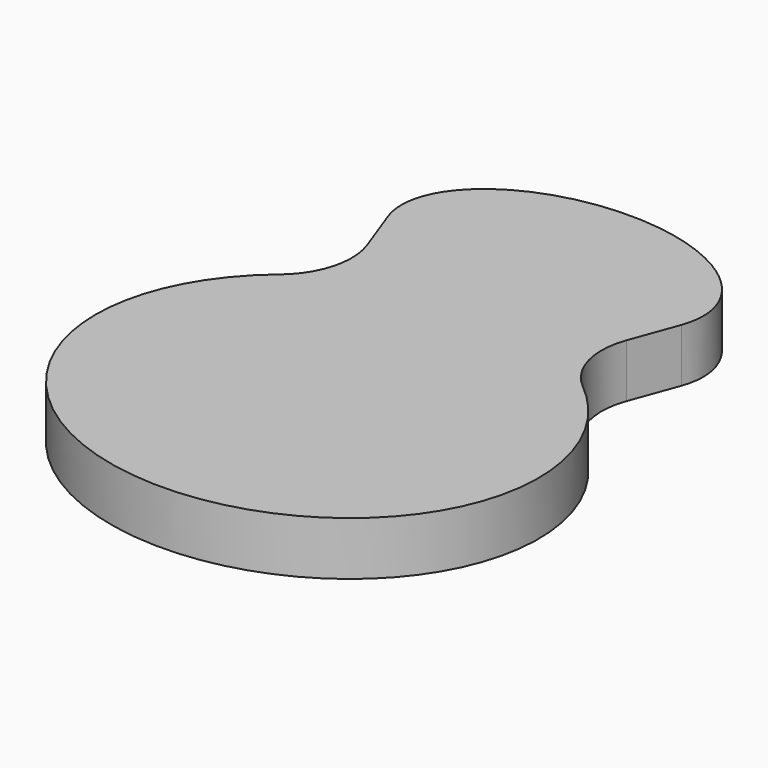
from build123d import *

# Parameters (mm, degrees)
F1_DEPTH = 40


with BuildPart() as f1:
    # F0 (on Top) → F1 (new body)
    with BuildSketch(Plane.XY):
        with BuildLine():
            Line((-112.9148460081, 252.6059501952), (-113.7991160194, 251.8639595549))
            add(Edge.make_bspline(
                [(-113.7991160194, 251.8639595549), (-413.958894664, 0), (0, 0)],
                knots=[2.3304194273, 2.3304194273, 2.3304194273, 4.7123889804, 4.7123889804, 4.7123889804], degree=2, weights=[1, 0.3707454562, 1]))
            add(Edge.make_bspline(
                [(0, 0), (413.958894664, 0), (113.7991160194, 251.8639595549)],
                knots=[4.7123889804, 4.7123889804, 4.7123889804, 7.0943585335, 7.0943585335, 7.0943585335], degree=2, weights=[1, 0.3707454562, 1]))
            Line((113.7991160194, 251.8639595549), (112.9148460081, 252.6059501952))
            ThreePointArc((112.9148460081, 252.6059501952), (95.1316220853, 280.543048292), (96.6132405176, 313.6267196419))
            Line((96.6132405176, 313.6267196419), (109.5007401215, 348.8708617374))
            add(Edge.make_bspline(
                [(109.5007401215, 348.8708617374), (142.0920209916, 438), (0, 438)],
                knots=[6.0517575763, 6.0517575763, 6.0517575763, 7.853981634, 7.853981634, 7.853981634], degree=2, weights=[1, 0.620738502, 1]))
            add(Edge.make_bspline(
                [(0, 438), (-142.0920209916, 438), (-109.5007401215, 348.8708617374)],
                knots=[4.7123889804, 4.7123889804, 4.7123889804, 6.5146130381, 6.5146130381, 6.5146130381], degree=2, weights=[1, 0.620738502, 1]))
            Line((-109.5007401215, 348.8708617374), (-96.6132405176, 313.6267196419))
            ThreePointArc((-96.6132405176, 313.6267196419), (-95.1316220853, 280.543048292), (-112.9148460081, 252.6059501952))
        make_face()
    extrude(amount=F1_DEPTH)


solid = f1.part
